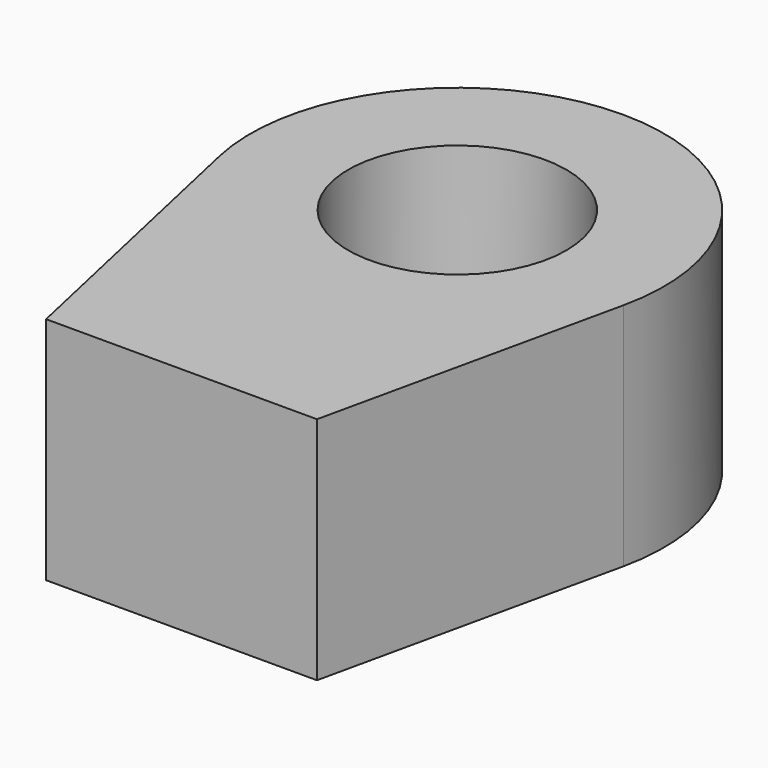
from build123d import *

# Parameters (mm, degrees)
F0_R     = 4.75
F1_DEPTH = 10


with BuildPart() as f1:
    # F0 (on Top) → F1 (new body)
    with BuildSketch(Plane.XY):
        with BuildLine():
            ThreePointArc((8.786664, -1.947957), (7.01896, 5.633311), (0, 9))
            ThreePointArc((0, 9), (-7.01896, 5.633311), (-8.786664, -1.947957))
            Line((-8.786664, -1.947957), (-5.893096, -15))
            Line((-5.893096, -15), (0, -15))
            Line((0, -15), (5.893096, -15))
            Line((5.893096, -15), (8.786664, -1.947957))
        make_face()
        Circle(F0_R, mode=Mode.SUBTRACT)
    extrude(amount=F1_DEPTH)


solid = f1.part
